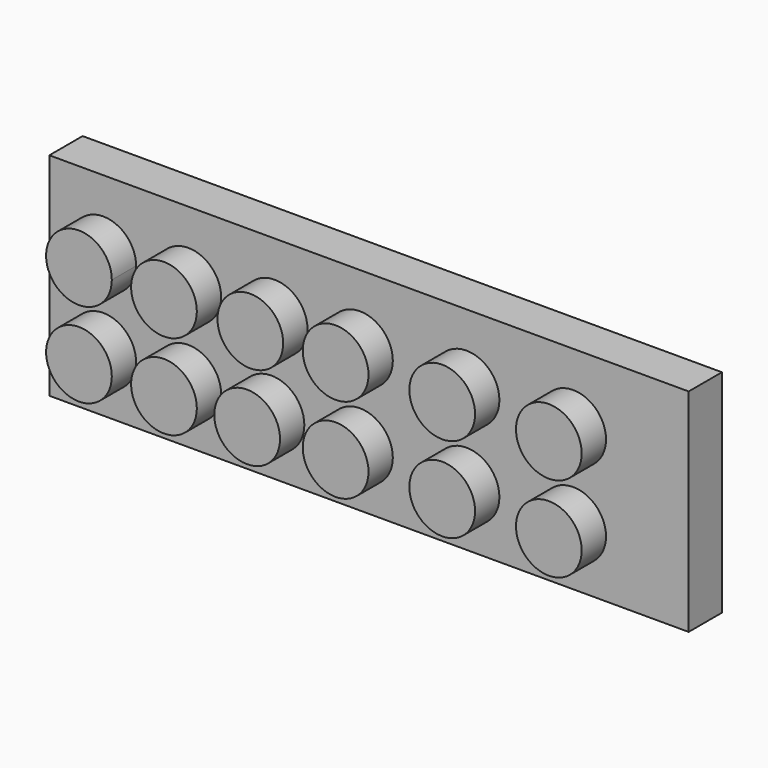
from build123d import *

# Parameters (mm, degrees)
F0_W     = 47.95
F0_H     = 15.88
F0_R     = 2.46
F1_DEPTH = 3.12
F3_R     = 2.465
F4_DEPTH = 2.28
F5_W     = 44.987634
F5_H     = 13.142811
F6_DEPTH = 1.91
F7_R     = 3.285
F8_DEPTH = 1.93


with BuildPart() as f1:
    # F0 (on Front) → F1 (new body)
    with BuildSketch(Plane.XZ):
        with Locations((-62.765208, 37.205729)):
            Rectangle(F0_W, F0_H)
        with Locations((-83.495483, 34.202196)):
            Circle(F0_R, mode=Mode.SUBTRACT)
        with Locations((-76.453662, 34.202196)):
            Circle(F0_R, mode=Mode.SUBTRACT)
        with Locations((-69.286012, 34.202196)):
            Circle(F0_R, mode=Mode.SUBTRACT)
        with Locations((-83.495483, 41.639235)):
            Circle(F0_R, mode=Mode.SUBTRACT)
        with Locations((-76.453662, 41.639235)):
            Circle(F0_R, mode=Mode.SUBTRACT)
        with Locations((-69.286012, 41.639235)):
            Circle(F0_R, mode=Mode.SUBTRACT)
        with Locations((-61.757147, 34.202196)):
            Circle(F0_R, mode=Mode.SUBTRACT)
        with Locations((-53.794272, 34.202196)):
            Circle(F0_R, mode=Mode.SUBTRACT)
        with Locations((-44.286012, 34.202196)):
            Circle(F0_R, mode=Mode.SUBTRACT)
        with Locations((-62.190687, 41.639235)):
            Circle(F0_R, mode=Mode.SUBTRACT)
        with Locations((-53.676993, 41.639235)):
            Circle(F0_R, mode=Mode.SUBTRACT)
        with Locations((-44.286012, 41.639235)):
            Circle(F0_R, mode=Mode.SUBTRACT)
        with Locations((-83.495483, 41.639235)):
            Circle(F0_R)
        with Locations((-83.495483, 34.202196)):
            Circle(F0_R)
        with Locations((-76.453662, 34.202196)):
            Circle(F0_R)
        with Locations((-76.453662, 41.639235)):
            Circle(F0_R)
        with Locations((-69.286012, 34.202196)):
            Circle(F0_R)
        with Locations((-69.286012, 41.639235)):
            Circle(F0_R)
        with Locations((-61.757147, 34.202196)):
            Circle(F0_R)
        with Locations((-62.190687, 41.639235)):
            Circle(F0_R)
        with Locations((-53.794272, 34.202196)):
            Circle(F0_R)
        with Locations((-53.676993, 41.639235)):
            Circle(F0_R)
        with Locations((-44.286012, 34.202196)):
            Circle(F0_R)
        with Locations((-44.286012, 41.639235)):
            Circle(F0_R)
    extrude(amount=F1_DEPTH)

    # F3 (on face) → F4 (join)
    with BuildSketch(Plane.XZ.offset(3.12)):
        with BuildLine():
            ThreePointArc((-85.161299, 39.95467), (-82.693921, 37.494436), (-80.231304, 39.959435))
            ThreePointArc((-80.231304, 39.959435), (-82.698686, 42.424434), (-85.161299, 39.95467))
        make_face()
        with Locations((-82.696304, 33.589986)):
            Circle(F3_R)
        with Locations((-76.319206, 39.959435)):
            Circle(F3_R)
        with Locations((-76.319206, 33.553134)):
            Circle(F3_R)
        with Locations((-69.843043, 39.959435)):
            Circle(F3_R)
        with Locations((-63.444085, 39.959435)):
            Circle(F3_R)
        with Locations((-55.449564, 39.959435)):
            Circle(F3_R)
        with Locations((-70.081018, 33.553134)):
            Circle(F3_R)
        with Locations((-63.444085, 33.553134)):
            Circle(F3_R)
        with Locations((-55.449564, 33.553134)):
            Circle(F3_R)
        with Locations((-47.453236, 33.553134)):
            Circle(F3_R)
        with Locations((-47.453236, 39.959435)):
            Circle(F3_R)
    extrude(amount=F4_DEPTH)

    # F5 (on face) → F6 (cut)
    with BuildSketch(Plane(origin=(0, 0, 0), x_dir=(-1, 0, 0), z_dir=(0, 1, 0))):
        with Locations((62.636159, 37.369034)):
            Rectangle(F5_W, F5_H)
    extrude(amount=-F6_DEPTH, mode=Mode.SUBTRACT)

    # F7 (on face) → F8 (join)
    with BuildSketch(Plane(origin=(0, -1.91, 0), x_dir=(-1, 0, 0), z_dir=(0, 1, 0))):
        with Locations((46.452342, 37.369034)):
            Circle(F7_R)
        with Locations((53.832342, 37.369034)):
            Circle(F7_R)
        with Locations((61.212342, 37.369034)):
            Circle(F7_R)
        with Locations((68.592342, 37.369034)):
            Circle(F7_R)
        with Locations((75.972342, 37.369034)):
            Circle(F7_R)
    extrude(amount=F8_DEPTH)


solid = f1.part
